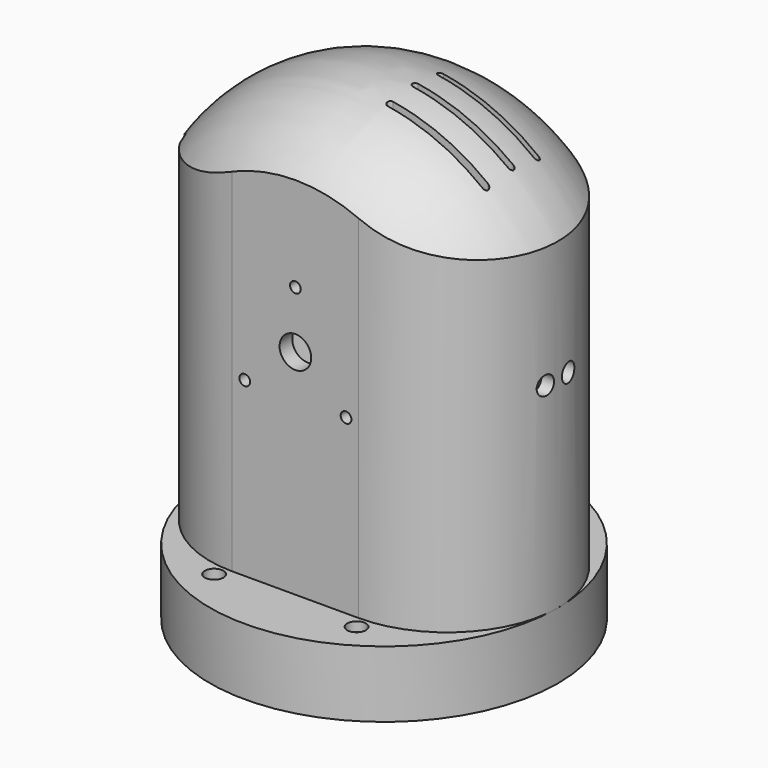
from build123d import *

# Parameters (mm, degrees)
CYLINDER_R               = 2.95
CYLINDER_DEPTH           = 7
CYLINDER001_R            = 1.7
CYLINDER001_DEPTH        = 30
PAD002_DEPTH             = 2.7
PRISM_DEPTH              = 12
CYLINDER1003_R           = 8.2
CYLINDER1003_DEPTH       = 15
CLONE062_PITCH_ANGLE     = -90
CLONE061_PITCH_ANGLE     = -90
BOX246_W                 = 10
BOX246_H                 = 6.9
BOX246_DEPTH             = 34
CLONE058_PITCH_ANGLE     = 90
PAD026_DEPTH             = 10
CYLINDER1061_R           = 2.1
CYLINDER1061_DEPTH       = 7
CYLINDER1062_R           = 1.2
CYLINDER1062_DEPTH       = 30
PAD048_DEPTH             = 1.7
PAD_DEPTH                = 85
PAD050_DEPTH             = 20
CLONE440_PITCH_ANGLE     = 90
CLONE442_PITCH_ANGLE     = 90
CLONE443_PITCH_ANGLE     = 90
CLONE441_PITCH_ANGLE     = 90
BOX_W                    = 15
BOX_H                    = 40
BOX_DEPTH                = 40
PAD027_DEPTH             = 10
CLONE202_PITCH_ANGLE     = -90
CLONE202_PLACEMENT_ANGLE = -90
CLONE203_PITCH_ANGLE     = -90
CLONE203_PLACEMENT_ANGLE = -90
CLONE204_PITCH_ANGLE     = -90
CLONE204_PLACEMENT_ANGLE = -90
CLONE205_PITCH_ANGLE     = 90
CLONE205_PLACEMENT_ANGLE = 90
CLONE206_PITCH_ANGLE     = 90
CLONE206_PLACEMENT_ANGLE = 90
CLONE207_PITCH_ANGLE     = 90
CLONE207_PLACEMENT_ANGLE = 90
CLONE208_ROLL_ANGLE      = -90.0000000001
CLONE209_ROLL_ANGLE      = -90.0000000001
CLONE210_ROLL_ANGLE      = -90.0000000001
CLONE210_PLACEMENT_ANGLE = 180
CLONE211_ROLL_ANGLE      = -90.0000000001
CLONE211_PLACEMENT_ANGLE = 180
CLONE212_ROLL_ANGLE      = -90.0000000001
CYLINDER1019_R           = 5
CYLINDER1019_DEPTH       = 10
CYLINDER1019_ROLL_ANGLE  = 90.0000000001
CLONE356_ROLL_ANGLE      = -90.0000000001
CLONE356_PLACEMENT_ANGLE = 180
CLONE353_ROLL_ANGLE      = -90.0000000001
CLONE354_ROLL_ANGLE      = -90.0000000001
CLONE355_ROLL_ANGLE      = -90.0000000001
CLONE355_PLACEMENT_ANGLE = 180
CYLINDER1021_R           = 5
CYLINDER1021_DEPTH       = 10
CYLINDER1021_ROLL_ANGLE  = 90.0000000001
CLONE199_PLACEMENT_ANGLE = 180
CLONE201_PLACEMENT_ANGLE = 180
CLONE198_PLACEMENT_ANGLE = 90.0000000001
CLONE217_PITCH_ANGLE     = -90
PAD030_DEPTH             = 45
CLONE218_PITCH_ANGLE     = -90
CLONE213_ROLL_ANGLE      = 180
CLONE213_PLACEMENT_ANGLE = -149.9999999999
CLONE214_PLACEMENT_ANGLE = 180
CLONE215_ROLL_ANGLE      = 180
CLONE215_PLACEMENT_ANGLE = 119.9999999999
CLONE216_ROLL_ANGLE      = 180
CLONE216_PLACEMENT_ANGLE = -60
BOX253_W                 = 10
BOX253_H                 = 40
BOX253_DEPTH             = 40
BOX252_W                 = 3
BOX252_H                 = 26.5
BOX252_DEPTH             = 45
PAD029_DEPTH             = 6
REVOLUTION006_ANGLE      = 180
PAD028_DEPTH             = 139
CYLINDER1017_R           = 50.2
CYLINDER1017_DEPTH       = 7
CYLINDER1016_R           = 55
CYLINDER1016_DEPTH       = 21
REVOLUTION005_ANGLE      = 180
PAD025_DEPTH             = 131.5
CLONE200_PLACEMENT_ANGLE = 180
CLONE433_PLACEMENT_ANGLE = 90.0000000001
CLONE434_PLACEMENT_ANGLE = 90.0000000001
PAD049_DEPTH             = 3


with BuildPart() as m3bolthead:
    # Cylinder → Cylinder (new body)
    with BuildSketch(Plane.XY):
        Circle(CYLINDER_R)
    extrude(amount=CYLINDER_DEPTH)


with BuildPart() as m3bolt:
    # Cylinder001 → Cylinder001 (new body)
    with BuildSketch(Plane.XY.offset(6)):
        Circle(CYLINDER001_R)
    extrude(amount=CYLINDER001_DEPTH)

    # Fusion: union M3BoltHead
    add(m3bolthead.part)


with BuildPart() as m3nuthousing:
    # Sketch003 → Pad002 (new body)
    with BuildSketch(Plane.XY):
        Polygon((0, 0), (1.6743157806, 2.9), (21.6743157806, 2.9), (21.6743157806, -2.9), (1.6743157806, -2.9), align=None)
    extrude(amount=PAD002_DEPTH)


with BuildPart() as m3nut:
    # Prism → Prism (new body)
    with BuildSketch(Plane.XY):
        Polygon((3.35, 0), (1.675, 2.9011851027), (-1.675, 2.9011851027), (-3.35, 0), (-1.675, -2.9011851027), (1.675, -2.9011851027), align=None)
    extrude(amount=PRISM_DEPTH)


with BuildPart() as obj1:
    # Cylinder1003 → Cylinder1003 (new body)
    with BuildSketch(Plane.XY):
        Circle(CYLINDER1003_R)
    extrude(amount=CYLINDER1003_DEPTH)


with BuildPart() as clone_of_m3bolt022:
    # Clone062 base: copy of M3Bolt
    add(m3bolt.part)


with BuildPart() as clone_of_m3bolt022_1:
    # Clone062 pitch: moved
    add(clone_of_m3bolt022.part.rotate(Axis((0, 0, 0), (0, 1, 0)), CLONE062_PITCH_ANGLE))


with BuildPart() as clone_of_m3bolt022_2:
    # Clone062 placement: moved
    add(clone_of_m3bolt022_1.part.moved(Location((36, 0, -11))))


with BuildPart() as clone_of_m3bolt021:
    # Clone061 base: copy of M3Bolt
    add(m3bolt.part)


with BuildPart() as clone_of_m3bolt021_1:
    # Clone061 pitch: moved
    add(clone_of_m3bolt021.part.rotate(Axis((0, 0, 0), (0, 1, 0)), CLONE061_PITCH_ANGLE))


with BuildPart() as clone_of_m3bolt021_2:
    # Clone061 placement: moved
    add(clone_of_m3bolt021_1.part.moved(Location((36, 0, 11))))


with BuildPart() as cube010:
    # Box246 → Box246 (new body)
    with BuildSketch(Plane(origin=(2, -3.45, -17), x_dir=(1, 0, 0), z_dir=(0, 0, 1))):
        with Locations((5, 3.45)):
            Rectangle(BOX246_W, BOX246_H)
    extrude(amount=BOX246_DEPTH)


with BuildPart() as fusion021:
    # Clone058 base: copy of obj1
    add(obj1.part)


with BuildPart() as fusion021_1:
    # Clone058 pitch: moved
    add(fusion021.part.rotate(Axis((0, 0, 0), (0, 1, 0)), CLONE058_PITCH_ANGLE))


with BuildPart() as fusion021_2:
    # Clone058 placement: moved
    add(fusion021_1.part)

    # Fusion021: union Clone of M3Bolt022, Clone of M3Bolt021, Cube010
    add(clone_of_m3bolt022_2.part)
    add(clone_of_m3bolt021_2.part)
    add(cube010.part)


with BuildPart() as obj2:
    # Sketch016 → Revolution003 (revolve)
    with BuildSketch(Plane.XY):
        Polygon((0, 0), (0, 18), (6, 12), (6, 0), align=None)
    revolve(axis=Axis((0, 0, 0), (1, 0, 0)))

    # Cut020: cut Fusion021
    add(fusion021_2.part, mode=Mode.SUBTRACT)


with BuildPart() as nutholder45degreesmaster:
    # Sketch036 → Pad026 (new body)
    with BuildSketch(Plane.YZ):
        Polygon((0, 0), (0, 14), (5, 14), (5, 5), align=None)
    extrude(amount=PAD026_DEPTH)


with BuildPart() as m2bolthead:
    # Cylinder1061 → Cylinder1061 (new body)
    with BuildSketch(Plane.XY):
        Circle(CYLINDER1061_R)
    extrude(amount=CYLINDER1061_DEPTH)


with BuildPart() as m2bolt:
    # Cylinder1062 → Cylinder1062 (new body)
    with BuildSketch(Plane.XY.offset(6)):
        Circle(CYLINDER1062_R)
    extrude(amount=CYLINDER1062_DEPTH)

    # Fusion158: union M2BoltHead
    add(m2bolthead.part)


with BuildPart() as m2nuthousing:
    # Sketch079 → Pad048 (new body)
    with BuildSketch(Plane.XY):
        Polygon((0, 0), (1.1835680518, 2.05), (21.1835680518, 2.05), (21.1835680518, -2.05), (1.1835680518, -2.05), align=None)
    extrude(amount=PAD048_DEPTH)


with BuildPart() as pad:
    # Sketch → Pad (new body, symmetric)
    with BuildSketch(Plane(origin=(10, 0, 80), x_dir=(0, 1, 0), z_dir=(0, 0, -1))):
        with BuildLine():
            ThreePointArc((1, 30), (0, 31), (-1, 30))
            Line((-1, 30), (-1, 0))
            ThreePointArc((-1, 0), (0, -1), (1, 0))
            Line((1, 30), (1, 0))
        make_face()
    extrude(amount=PAD_DEPTH, both=True)


with BuildPart() as clone_of_pad001:
    # Clone435 base: copy of Pad
    add(pad.part)


with BuildPart() as clone_of_pad001_1:
    # Clone435 placement: moved
    add(clone_of_pad001.part.moved(Location((0, -10, 0))))


with BuildPart() as clone_of_pad:
    # Clone base: copy of Pad
    add(pad.part)


with BuildPart() as clone_of_pad_1:
    # Clone placement: moved
    add(clone_of_pad.part.moved(Location((0, 10, 0))))


with BuildPart() as fusion167:
    # Fusion167 base: copy of Pad
    add(pad.part)

    # Fusion167: union Clone of Pad001, Clone of Pad
    add(clone_of_pad001_1.part)
    add(clone_of_pad_1.part)


with BuildPart() as pad050:
    # Sketch082 → Pad050 (new body, symmetric)
    with BuildSketch(Plane(origin=(-42, 0, 118), x_dir=(0, 1, 0), z_dir=(-1, 0, 0))):
        with BuildLine():
            ThreePointArc((1, 24), (0, 25), (-1, 24))
            Line((-1, 23.9999999999), (-1, 0))
            ThreePointArc((-1, 0), (0, -1), (1, 0))
            Line((1, 24), (1, 0))
        make_face()
    extrude(amount=PAD050_DEPTH, both=True)


with BuildPart() as clone_of_pad053:
    # Clone439 base: copy of Pad050
    add(pad050.part)


with BuildPart() as clone_of_pad053_1:
    # Clone439 placement: moved
    add(clone_of_pad053.part.moved(Location((0, -14, 0))))


with BuildPart() as clone_of_m3bolt:
    # Clone440 base: copy of M3Bolt
    add(m3bolt.part)


with BuildPart() as clone_of_m3bolt_1:
    # Clone440 pitch: moved
    add(clone_of_m3bolt.part.rotate(Axis((0, 0, 0), (0, 1, 0)), CLONE440_PITCH_ANGLE))


with BuildPart() as clone_of_m3bolt_2:
    # Clone440 placement: moved
    add(clone_of_m3bolt_1.part.moved(Location((-55, -16, 90))))


with BuildPart() as clone_of_pad050:
    # Clone436 base: copy of Pad050
    add(pad050.part)


with BuildPart() as clone_of_pad050_1:
    # Clone436 placement: moved
    add(clone_of_pad050.part.moved(Location((0, 7, 0))))


with BuildPart() as clone_of_m3bolt121:
    # Clone442 base: copy of M3Bolt
    add(m3bolt.part)


with BuildPart() as clone_of_m3bolt121_1:
    # Clone442 pitch: moved
    add(clone_of_m3bolt121.part.rotate(Axis((0, 0, 0), (0, 1, 0)), CLONE442_PITCH_ANGLE))


with BuildPart() as clone_of_m3bolt121_2:
    # Clone442 placement: moved
    add(clone_of_m3bolt121_1.part.moved(Location((-55, 16, 90))))


with BuildPart() as clone_of_m3bolt122:
    # Clone443 base: copy of M3Bolt
    add(m3bolt.part)


with BuildPart() as clone_of_m3bolt122_1:
    # Clone443 pitch: moved
    add(clone_of_m3bolt122.part.rotate(Axis((0, 0, 0), (0, 1, 0)), CLONE443_PITCH_ANGLE))


with BuildPart() as clone_of_m3bolt122_2:
    # Clone443 placement: moved
    add(clone_of_m3bolt122_1.part.moved(Location((-54, 16, 122))))


with BuildPart() as clone_of_pad051:
    # Clone437 base: copy of Pad050
    add(pad050.part)


with BuildPart() as clone_of_pad051_1:
    # Clone437 placement: moved
    add(clone_of_pad051.part.moved(Location((0, -7, 0))))


with BuildPart() as clone_of_pad052:
    # Clone438 base: copy of Pad050
    add(pad050.part)


with BuildPart() as clone_of_pad052_1:
    # Clone438 placement: moved
    add(clone_of_pad052.part.moved(Location((0, 14, 0))))


with BuildPart() as clone_of_m3bolt120:
    # Clone441 base: copy of M3Bolt
    add(m3bolt.part)


with BuildPart() as clone_of_m3bolt120_1:
    # Clone441 pitch: moved
    add(clone_of_m3bolt120.part.rotate(Axis((0, 0, 0), (0, 1, 0)), CLONE441_PITCH_ANGLE))


with BuildPart() as clone_of_m3bolt120_2:
    # Clone441 placement: moved
    add(clone_of_m3bolt120_1.part.moved(Location((-54, -16, 122))))


with BuildPart() as fusion173:
    # Box → Box (new body)
    with BuildSketch(Plane(origin=(-46, -20, 86), x_dir=(1, 0, 0), z_dir=(0, 0, 1))):
        with Locations((7.5, 20)):
            Rectangle(BOX_W, BOX_H)
    extrude(amount=BOX_DEPTH)

    # Fusion172: union Clone of Pad053, Clone of M3Bolt, Clone of Pad050, Clone of M3Bolt121, Clone of M3Bolt122, Clone of Pad051, Clone of Pad052, Clone of M3Bolt120, Pad050
    add(clone_of_pad053_1.part)
    add(clone_of_m3bolt_2.part)
    add(clone_of_pad050_1.part)
    add(clone_of_m3bolt121_2.part)
    add(clone_of_m3bolt122_2.part)
    add(clone_of_pad051_1.part)
    add(clone_of_pad052_1.part)
    add(clone_of_m3bolt120_2.part)
    add(pad050.part)

    # Fusion173: union Fusion167
    add(fusion167.part)


with BuildPart() as pad027:
    # Sketch037 → Pad027 (new body, symmetric)
    with BuildSketch(Plane(origin=(0, 35, 88.5), x_dir=(1, 0, 0), z_dir=(0, -1, 0))):
        with BuildLine():
            ThreePointArc((27.6083764444, 4.6666422732), (1.22863e-05, 28), (-27.6083723489, 4.6666665022))
            ThreePointArc((-27.6083723489, 4.6666665022), (-24.330985606, 0.0559467786), (-19.7202659062, 3.3333335551))
            ThreePointArc((19.7202659141, 3.3333335082), (2.38e-08, 20), (-19.7202659062, 3.3333335551))
            ThreePointArc((19.7202659141, 3.3333335082), (24.3309735149, 0.0559447349), (27.6083764443, 4.6666422732))
        make_face()
    extrude(amount=PAD027_DEPTH, both=True)


with BuildPart() as clone_of_m3bolt064:
    # Clone202 base: copy of M3Bolt
    add(m3bolt.part)


with BuildPart() as clone_of_m3bolt064_1:
    # Clone202 pitch: moved
    add(clone_of_m3bolt064.part.rotate(Axis((0, 0, 0), (0, 1, 0)), CLONE202_PITCH_ANGLE))


with BuildPart() as clone_of_m3bolt064_2:
    # Clone202 placement: moved
    add(clone_of_m3bolt064_1.part.moved(Location((-16, -55.7934, 75.5))).rotate(Axis((-16, -55.7934, 75.5), (0, 0, 1)), CLONE202_PLACEMENT_ANGLE))


with BuildPart() as clone_of_m3bolt065:
    # Clone203 base: copy of M3Bolt
    add(m3bolt.part)


with BuildPart() as clone_of_m3bolt065_1:
    # Clone203 pitch: moved
    add(clone_of_m3bolt065.part.rotate(Axis((0, 0, 0), (0, 1, 0)), CLONE203_PITCH_ANGLE))


with BuildPart() as clone_of_m3bolt065_2:
    # Clone203 placement: moved
    add(clone_of_m3bolt065_1.part.moved(Location((16, -55.7934, 75.5))).rotate(Axis((16, -55.7934, 75.5), (0, 0, 1)), CLONE203_PLACEMENT_ANGLE))


with BuildPart() as clone_of_m3bolt066:
    # Clone204 base: copy of M3Bolt
    add(m3bolt.part)


with BuildPart() as clone_of_m3bolt066_1:
    # Clone204 pitch: moved
    add(clone_of_m3bolt066.part.rotate(Axis((0, 0, 0), (0, 1, 0)), CLONE204_PITCH_ANGLE))


with BuildPart() as clone_of_m3bolt066_2:
    # Clone204 placement: moved
    add(clone_of_m3bolt066_1.part.moved(Location((0, -55.7934, 106.5))).rotate(Axis((0, -55.7934, 106.5), (0, 0, 1)), CLONE204_PLACEMENT_ANGLE))


with BuildPart() as clone_of_m3nuthousing018:
    # Clone205 base: copy of M3NutHousing
    add(m3nuthousing.part)


with BuildPart() as clone_of_m3nuthousing018_1:
    # Clone205 pitch: moved
    add(clone_of_m3nuthousing018.part.rotate(Axis((0, 0, 0), (0, 1, 0)), CLONE205_PITCH_ANGLE))


with BuildPart() as clone_of_m3nuthousing018_2:
    # Clone205 placement: moved
    add(clone_of_m3nuthousing018_1.part.moved(Location((-16, -30, 79))).rotate(Axis((-16, -30, 79), (0, 0, 1)), CLONE205_PLACEMENT_ANGLE))


with BuildPart() as clone_of_m3nuthousing019:
    # Clone206 base: copy of M3NutHousing
    add(m3nuthousing.part)


with BuildPart() as clone_of_m3nuthousing019_1:
    # Clone206 pitch: moved
    add(clone_of_m3nuthousing019.part.rotate(Axis((0, 0, 0), (0, 1, 0)), CLONE206_PITCH_ANGLE))


with BuildPart() as clone_of_m3nuthousing019_2:
    # Clone206 placement: moved
    add(clone_of_m3nuthousing019_1.part.moved(Location((16, -30, 79))).rotate(Axis((16, -30, 79), (0, 0, 1)), CLONE206_PLACEMENT_ANGLE))


with BuildPart() as clone_of_m3nuthousing020:
    # Clone207 base: copy of M3NutHousing
    add(m3nuthousing.part)


with BuildPart() as clone_of_m3nuthousing020_1:
    # Clone207 pitch: moved
    add(clone_of_m3nuthousing020.part.rotate(Axis((0, 0, 0), (0, 1, 0)), CLONE207_PITCH_ANGLE))


with BuildPart() as clone_of_m3nuthousing020_2:
    # Clone207 placement: moved
    add(clone_of_m3nuthousing020_1.part.moved(Location((0, -30, 110))).rotate(Axis((0, -30, 110), (0, 0, 1)), CLONE207_PLACEMENT_ANGLE))


with BuildPart() as clone_of_m3nut007:
    # Clone208 base: copy of M3Nut
    add(m3nut.part)


with BuildPart() as clone_of_m3nut007_1:
    # Clone208 roll: moved
    add(clone_of_m3nut007.part.rotate(Axis((0, 0, 0), (1, 0, 0)), CLONE208_ROLL_ANGLE))


with BuildPart() as clone_of_m3nut007_2:
    # Clone208 placement: moved
    add(clone_of_m3nut007_1.part.moved(Location((0, 22, 77.5))))


with BuildPart() as clone_of_m3nut008:
    # Clone209 base: copy of M3Nut
    add(m3nut.part)


with BuildPart() as clone_of_m3nut008_1:
    # Clone209 roll: moved
    add(clone_of_m3nut008.part.rotate(Axis((0, 0, 0), (1, 0, 0)), CLONE209_ROLL_ANGLE))


with BuildPart() as clone_of_m3nut008_2:
    # Clone209 placement: moved
    add(clone_of_m3nut008_1.part.moved(Location((0, 22, 99.5))))


with BuildPart() as clone_of_m3bolt067:
    # Clone210 base: copy of M3Bolt
    add(m3bolt.part)


with BuildPart() as clone_of_m3bolt067_1:
    # Clone210 roll: moved
    add(clone_of_m3bolt067.part.rotate(Axis((0, 0, 0), (1, 0, 0)), CLONE210_ROLL_ANGLE))


with BuildPart() as clone_of_m3bolt067_2:
    # Clone210 placement: moved
    add(clone_of_m3bolt067_1.part.moved(Location((0, 63, 77.5))).rotate(Axis((0, 63, 77.5), (0, 0, 1)), CLONE210_PLACEMENT_ANGLE))


with BuildPart() as clone_of_m3bolt068:
    # Clone211 base: copy of M3Bolt
    add(m3bolt.part)


with BuildPart() as clone_of_m3bolt068_1:
    # Clone211 roll: moved
    add(clone_of_m3bolt068.part.rotate(Axis((0, 0, 0), (1, 0, 0)), CLONE211_ROLL_ANGLE))


with BuildPart() as clone_of_m3bolt068_2:
    # Clone211 placement: moved
    add(clone_of_m3bolt068_1.part.moved(Location((0, 63, 99.5))).rotate(Axis((0, 63, 99.5), (0, 0, 1)), CLONE211_PLACEMENT_ANGLE))


with BuildPart() as obj3:
    # Clone212 base: copy of obj1
    add(obj1.part)


with BuildPart() as obj3_1:
    # Clone212 roll: moved
    add(obj3.part.rotate(Axis((0, 0, 0), (1, 0, 0)), CLONE212_ROLL_ANGLE))


with BuildPart() as obj3_2:
    # Clone212 placement: moved
    add(obj3_1.part.moved(Location((0, 32, 88.5))))


with BuildPart() as cylinder1066:
    # Cylinder1019 → Cylinder1019 (new body)
    with BuildSketch(Plane.XY):
        Circle(CYLINDER1019_R)
    extrude(amount=CYLINDER1019_DEPTH)


with BuildPart() as cylinder1066_1:
    # Cylinder1019 roll: moved
    add(cylinder1066.part.rotate(Axis((0, 0, 0), (1, 0, 0)), CYLINDER1019_ROLL_ANGLE))


with BuildPart() as cylinder1066_2:
    # Cylinder1019 placement: moved
    add(cylinder1066_1.part.moved(Location((0, 32, 88.5))))


with BuildPart() as clone_of_m3bolt119:
    # Clone356 base: copy of M3Bolt
    add(m3bolt.part)


with BuildPart() as clone_of_m3bolt119_1:
    # Clone356 roll: moved
    add(clone_of_m3bolt119.part.rotate(Axis((0, 0, 0), (1, 0, 0)), CLONE356_ROLL_ANGLE))


with BuildPart() as clone_of_m3bolt119_2:
    # Clone356 placement: moved
    add(clone_of_m3bolt119_1.part.moved(Location((-25, 56, 85))).rotate(Axis((-25, 56, 85), (0, 0, 1)), CLONE356_PLACEMENT_ANGLE))


with BuildPart() as clone_of_m3nut017:
    # Clone353 base: copy of M3Nut
    add(m3nut.part)


with BuildPart() as clone_of_m3nut017_1:
    # Clone353 roll: moved
    add(clone_of_m3nut017.part.rotate(Axis((0, 0, 0), (1, 0, 0)), CLONE353_ROLL_ANGLE))


with BuildPart() as clone_of_m3nut017_2:
    # Clone353 placement: moved
    add(clone_of_m3nut017_1.part.moved(Location((25, 20, 85))))


with BuildPart() as clone_of_m3nut018:
    # Clone354 base: copy of M3Nut
    add(m3nut.part)


with BuildPart() as clone_of_m3nut018_1:
    # Clone354 roll: moved
    add(clone_of_m3nut018.part.rotate(Axis((0, 0, 0), (1, 0, 0)), CLONE354_ROLL_ANGLE))


with BuildPart() as clone_of_m3nut018_2:
    # Clone354 placement: moved
    add(clone_of_m3nut018_1.part.moved(Location((-25, 20, 85))))


with BuildPart() as clone_of_m3bolt118:
    # Clone355 base: copy of M3Bolt
    add(m3bolt.part)


with BuildPart() as clone_of_m3bolt118_1:
    # Clone355 roll: moved
    add(clone_of_m3bolt118.part.rotate(Axis((0, 0, 0), (1, 0, 0)), CLONE355_ROLL_ANGLE))


with BuildPart() as clone_of_m3bolt118_2:
    # Clone355 placement: moved
    add(clone_of_m3bolt118_1.part.moved(Location((25, 56, 85))).rotate(Axis((25, 56, 85), (0, 0, 1)), CLONE355_PLACEMENT_ANGLE))


with BuildPart() as fusion130:
    # Cylinder1021 → Cylinder1021 (new body)
    with BuildSketch(Plane.XY):
        Circle(CYLINDER1021_R)
    extrude(amount=CYLINDER1021_DEPTH)


with BuildPart() as fusion130_1:
    # Cylinder1021 roll: moved
    add(fusion130.part.rotate(Axis((0, 0, 0), (1, 0, 0)), CYLINDER1021_ROLL_ANGLE))


with BuildPart() as fusion130_2:
    # Cylinder1021 placement: moved
    add(fusion130_1.part.moved(Location((0, -27, 88.5))))

    # Fusion130: union Pad027, Clone of M3Bolt064, Clone of M3Bolt065, Clone of M3Bolt066, Clone of M3NutHousing018, Clone of M3NutHousing019, Clone of M3NutHousing020, Clone of M3Nut007, Clone of M3Nut008, Clone of M3Bolt067, Clone of M3Bolt068, obj3, Cylinder1066, Clone of M3Bolt119, Clone of M3Nut017, Clone of M3Nut018, Clone of M3Bolt118
    add(pad027.part)
    add(clone_of_m3bolt064_2.part)
    add(clone_of_m3bolt065_2.part)
    add(clone_of_m3bolt066_2.part)
    add(clone_of_m3nuthousing018_2.part)
    add(clone_of_m3nuthousing019_2.part)
    add(clone_of_m3nuthousing020_2.part)
    add(clone_of_m3nut007_2.part)
    add(clone_of_m3nut008_2.part)
    add(clone_of_m3bolt067_2.part)
    add(clone_of_m3bolt068_2.part)
    add(obj3_2.part)
    add(cylinder1066_2.part)
    add(clone_of_m3bolt119_2.part)
    add(clone_of_m3nut017_2.part)
    add(clone_of_m3nut018_2.part)
    add(clone_of_m3bolt118_2.part)


with BuildPart() as clone_of_nutholder45degreesmaster:
    # Clone199 base: copy of NutHolder45DegreesMaster
    add(nutholder45degreesmaster.part)


with BuildPart() as clone_of_nutholder45degreesmaster_1:
    # Clone199 placement: moved
    add(clone_of_nutholder45degreesmaster.part.moved(Location((-11, -30, 83.5))).rotate(Axis((-11, -30, 83.5), (0, 1, 0)), CLONE199_PLACEMENT_ANGLE))


with BuildPart() as clone_of_nutholder45degreesmaster002:
    # Clone201 base: copy of NutHolder45DegreesMaster
    add(nutholder45degreesmaster.part)


with BuildPart() as clone_of_nutholder45degreesmaster002_1:
    # Clone201 placement: moved
    add(clone_of_nutholder45degreesmaster002.part.moved(Location((5, -30, 114.5))).rotate(Axis((5, -30, 114.5), (0, 1, 0)), CLONE201_PLACEMENT_ANGLE))


with BuildPart() as obj4:
    # Clone198 base: copy of obj2
    add(obj2.part)


with BuildPart() as obj4_1:
    # Clone198 placement: moved
    add(obj4.part.moved(Location((0, 35, 88.5))).rotate(Axis((0, 35, 88.5), (0, 0, 1)), CLONE198_PLACEMENT_ANGLE))


with BuildPart() as clone_of_m3bolt073:
    # Clone217 base: copy of M3Bolt
    add(m3bolt.part)


with BuildPart() as clone_of_m3bolt073_1:
    # Clone217 pitch: moved
    add(clone_of_m3bolt073.part.rotate(Axis((0, 0, 0), (0, 1, 0)), CLONE217_PITCH_ANGLE))


with BuildPart() as clone_of_m3bolt073_2:
    # Clone217 placement: moved
    add(clone_of_m3bolt073_1.part.moved(Location((58, 4.5, 84.6))))


with BuildPart() as pad030:
    # Sketch041 → Pad030 (new body)
    with BuildSketch(Plane(origin=(46, -21.25, 78.6), x_dir=(1, 0, 0), z_dir=(0, 0, 1))):
        Polygon((0, 0), (3, 3), (3, 39.5), (0, 42.5), (-10, 42.5), (-10, 0), align=None)
    extrude(amount=PAD030_DEPTH)


with BuildPart() as fusion080:
    # Clone218 base: copy of M3Bolt
    add(m3bolt.part)


with BuildPart() as fusion080_1:
    # Clone218 pitch: moved
    add(fusion080.part.rotate(Axis((0, 0, 0), (0, 1, 0)), CLONE218_PITCH_ANGLE))


with BuildPart() as fusion080_2:
    # Clone218 placement: moved
    add(fusion080_1.part.moved(Location((58, -4.5, 84.6))))

    # Fusion080: union Clone of M3Bolt073, Pad030
    add(clone_of_m3bolt073_2.part)
    add(pad030.part)


with BuildPart() as clone_of_m3bolt069:
    # Clone213 base: copy of M3Bolt
    add(m3bolt.part)


with BuildPart() as clone_of_m3bolt069_1:
    # Clone213 roll: moved
    add(clone_of_m3bolt069.part.rotate(Axis((0, 0, 0), (1, 0, 0)), CLONE213_ROLL_ANGLE))


with BuildPart() as clone_of_m3bolt069_2:
    # Clone213 placement: moved
    add(clone_of_m3bolt069_1.part.moved(Location((-22.5, 38.9711431703, 25))).rotate(Axis((-22.5, 38.9711431703, 25), (0, 0, 1)), CLONE213_PLACEMENT_ANGLE))


with BuildPart() as clone_of_m3bolt070:
    # Clone214 base: copy of M3Bolt
    add(m3bolt.part)


with BuildPart() as clone_of_m3bolt070_1:
    # Clone214 placement: moved
    add(clone_of_m3bolt070.part.moved(Location((22.5, -38.9711431703, 25))).rotate(Axis((22.5, -38.9711431703, 25), (1, 0, 0)), CLONE214_PLACEMENT_ANGLE))


with BuildPart() as clone_of_m3bolt071:
    # Clone215 base: copy of M3Bolt
    add(m3bolt.part)


with BuildPart() as clone_of_m3bolt071_1:
    # Clone215 roll: moved
    add(clone_of_m3bolt071.part.rotate(Axis((0, 0, 0), (1, 0, 0)), CLONE215_ROLL_ANGLE))


with BuildPart() as clone_of_m3bolt071_2:
    # Clone215 placement: moved
    add(clone_of_m3bolt071_1.part.moved(Location((22.5, 38.9711431703, 25))).rotate(Axis((22.5, 38.9711431703, 25), (0, 0, 1)), CLONE215_PLACEMENT_ANGLE))


with BuildPart() as fusion169:
    # Clone216 base: copy of M3Bolt
    add(m3bolt.part)


with BuildPart() as fusion169_1:
    # Clone216 roll: moved
    add(fusion169.part.rotate(Axis((0, 0, 0), (1, 0, 0)), CLONE216_ROLL_ANGLE))


with BuildPart() as fusion169_2:
    # Clone216 placement: moved
    add(fusion169_1.part.moved(Location((-22.5, -38.9711431703, 25))).rotate(Axis((-22.5, -38.9711431703, 25), (0, 0, 1)), CLONE216_PLACEMENT_ANGLE))

    # Fusion163: union Clone of M3Bolt069, Clone of M3Bolt070, Clone of M3Bolt071
    add(clone_of_m3bolt069_2.part)
    add(clone_of_m3bolt070_1.part)
    add(clone_of_m3bolt071_2.part)

    # Fusion169: union Fusion080
    add(fusion080_2.part)


with BuildPart() as cube017:
    # Box253 → Box253 (new body)
    with BuildSketch(Plane(origin=(-56, -20, 86), x_dir=(1, 0, 0), z_dir=(0, 0, 1))):
        with Locations((5, 20)):
            Rectangle(BOX253_W, BOX253_H)
    extrude(amount=BOX253_DEPTH)


with BuildPart() as fusion168:
    # Box252 → Box252 (new body)
    with BuildSketch(Plane(origin=(48, -13.25, 78.6), x_dir=(1, 0, 0), z_dir=(0, 0, 1))):
        with Locations((1.5, 13.25)):
            Rectangle(BOX252_W, BOX252_H)
    extrude(amount=BOX252_DEPTH)

    # Fusion168: union Cube017
    add(cube017.part)


with BuildPart() as pad029:
    # Sketch040 → Pad029 (new body)
    with BuildSketch(Plane.XY.offset(7)):
        with BuildLine():
            ThreePointArc((-5, 40.1901729282), (0, -40.5), (5, 40.1901729282))
            Line((5, 40.1901729282), (5, 47))
            Line((5, 47), (-5, 47))
            Line((-5, 47), (-5, 40.1901729282))
        make_face()
    extrude(amount=PAD029_DEPTH)


with BuildPart() as revolution006:
    # Sketch039 → Revolution006 (revolve)
    with BuildSketch(Plane.XY.offset(73)):
        with BuildLine():
            ThreePointArc((-15.000060881, 46), (-61, 0), (-15.000060881, -46))
            Line((-15.000060881, -51), (-15.000060881, -46))
            Line((-115.000060881, -51), (-15.000060881, -51))
            Line((-115.000060881, 51), (-115.000060881, -51))
            Line((-15.000060881, 51), (-115.000060881, 51))
            Line((-15.000060881, 46), (-15.000060881, 51))
        make_face()
    revolve(axis=Axis((0, 0, 73), (0, 1, 0)), revolution_arc=REVOLUTION006_ANGLE)


with BuildPart() as cut062:
    # Sketch038 → Pad028 (new body)
    with BuildSketch(Plane.XY):
        with BuildLine():
            ThreePointArc((-20, 30), (-50, 0), (-20, -30))
            Line((-20, -30), (20, -30))
            ThreePointArc((20, -30), (50, 0), (20, 30))
            Line((-20, 30), (20, 30))
        make_face()
    extrude(amount=PAD028_DEPTH)

    # Cut062: cut Revolution006
    add(revolution006.part, mode=Mode.SUBTRACT)


with BuildPart() as cut062_1:
    # Cut062 placement: moved
    add(cut062.part.moved(Location((0, 0, 7))))


with BuildPart() as cut:
    # Cylinder1017 → Cylinder1017 (new body)
    with BuildSketch(Plane.XY):
        Circle(CYLINDER1017_R)
    extrude(amount=CYLINDER1017_DEPTH)

    # Fusion078: union Pad029, Cut062
    add(pad029.part)
    add(cut062_1.part)

    # Cut: cut Fusion168
    add(fusion168.part, mode=Mode.SUBTRACT)


with BuildPart() as cylinder1018:
    # Cylinder1016 → Cylinder1016 (new body)
    with BuildSketch(Plane.XY):
        Circle(CYLINDER1016_R)
    extrude(amount=CYLINDER1016_DEPTH)


with BuildPart() as revolution005:
    # Sketch035 → Revolution005 (revolve)
    with BuildSketch(Plane.XY.offset(65.5)):
        with BuildLine():
            ThreePointArc((-19.9999505107, 46), (-66, 0), (-19.9999505107, -46))
            Line((-19.9999505107, -51), (-19.9999505107, -46))
            Line((-119.9999505107, -51), (-19.9999505107, -51))
            Line((-119.9999505107, 51), (-119.9999505107, -51))
            Line((-19.9999505107, 51), (-119.9999505107, 51))
            Line((-19.9999505107, 46), (-19.9999505107, 51))
        make_face()
    revolve(axis=Axis((0, 0, 65.5), (0, 1, 0)), revolution_arc=REVOLUTION005_ANGLE)


with BuildPart() as cut144:
    # Sketch034 → Pad025 (new body)
    with BuildSketch(Plane.XY):
        with BuildLine():
            ThreePointArc((-20, 35), (-55, 0), (-20, -35))
            Line((-20, -35), (19.9999999999, -35))
            ThreePointArc((19.9999999999, -35), (54.9999999999, 0), (19.9999999999, 35))
            Line((-20, 35), (19.9999999999, 35))
        make_face()
    extrude(amount=PAD025_DEPTH)

    # Cut061: cut Revolution005
    add(revolution005.part, mode=Mode.SUBTRACT)


with BuildPart() as cut144_1:
    # Cut061 placement: moved
    add(cut144.part.moved(Location((0, 0, 21))))

    # Fusion072: union Cylinder1018
    add(cylinder1018.part)

    # Cut143: cut Cut
    add(cut.part, mode=Mode.SUBTRACT)

    # Cut144: cut Fusion169
    add(fusion169_2.part, mode=Mode.SUBTRACT)


with BuildPart() as cut145:
    # Clone200 base: copy of NutHolder45DegreesMaster
    add(nutholder45degreesmaster.part)


with BuildPart() as cut145_1:
    # Clone200 placement: moved
    add(cut145.part.moved(Location((21, -30, 83.5))).rotate(Axis((21, -30, 83.5), (0, 1, 0)), CLONE200_PLACEMENT_ANGLE))

    # Fusion170: union Clone of NutHolder45DegreesMaster, Clone of NutHolder45DegreesMaster002, obj4, Cut144
    add(clone_of_nutholder45degreesmaster_1.part)
    add(clone_of_nutholder45degreesmaster002_1.part)
    add(obj4_1.part)
    add(cut144_1.part)

    # Cut145: cut Fusion130
    add(fusion130_2.part, mode=Mode.SUBTRACT)


with BuildPart() as clone432:
    # Clone432 base: copy of M2Bolt
    add(m2bolt.part)


with BuildPart() as clone432_1:
    # Clone432 placement: moved
    add(clone432.part.moved(Location((-21.7, -13.5, 4))))


with BuildPart() as clone_of_m2nuthousing002:
    # Clone433 base: copy of M2NutHousing
    add(m2nuthousing.part)


with BuildPart() as clone_of_m2nuthousing002_1:
    # Clone433 placement: moved
    add(clone_of_m2nuthousing002.part.moved(Location((-21.7, -16.2, 32))).rotate(Axis((-21.7, -16.2, 32), (0, 0, 1)), CLONE433_PLACEMENT_ANGLE))


with BuildPart() as clone_of_m2nuthousing003:
    # Clone434 base: copy of M2NutHousing
    add(m2nuthousing.part)


with BuildPart() as clone_of_m2nuthousing003_1:
    # Clone434 placement: moved
    add(clone_of_m2nuthousing003.part.moved(Location((-31.7, -16.2, 32))).rotate(Axis((-31.7, -16.2, 32), (0, 0, 1)), CLONE434_PLACEMENT_ANGLE))


with BuildPart() as fusion162:
    # Clone431 base: copy of M2Bolt
    add(m2bolt.part)


with BuildPart() as fusion162_1:
    # Clone431 placement: moved
    add(fusion162.part.moved(Location((-31.7, -13.5, 4))))

    # Fusion162: union Clone432, Clone of M2NutHousing002, Clone of M2NutHousing003
    add(clone432_1.part)
    add(clone_of_m2nuthousing002_1.part)
    add(clone_of_m2nuthousing003_1.part)


with BuildPart() as obj5:
    # Sketch081 → Pad049 (new body, symmetric)
    with BuildSketch(Plane(origin=(-50, -13.5, 64.5), x_dir=(1, 0, 0), z_dir=(0, 1, 0))):
        Polygon((0, 0), (32, 32), (32, 34), (0, 34), align=None)
    extrude(amount=PAD049_DEPTH, both=True)

    # Cut142: cut Fusion162
    add(fusion162_1.part, mode=Mode.SUBTRACT)

    # Fusion171: union Cut145
    add(cut145_1.part)

    # Cut146: cut Fusion173
    add(fusion173.part, mode=Mode.SUBTRACT)


solid = Compound([m3bolt.part, m3nuthousing.part, m3nut.part, obj1.part, obj2.part, nutholder45degreesmaster.part, m2bolt.part, m2nuthousing.part, obj5.part])
